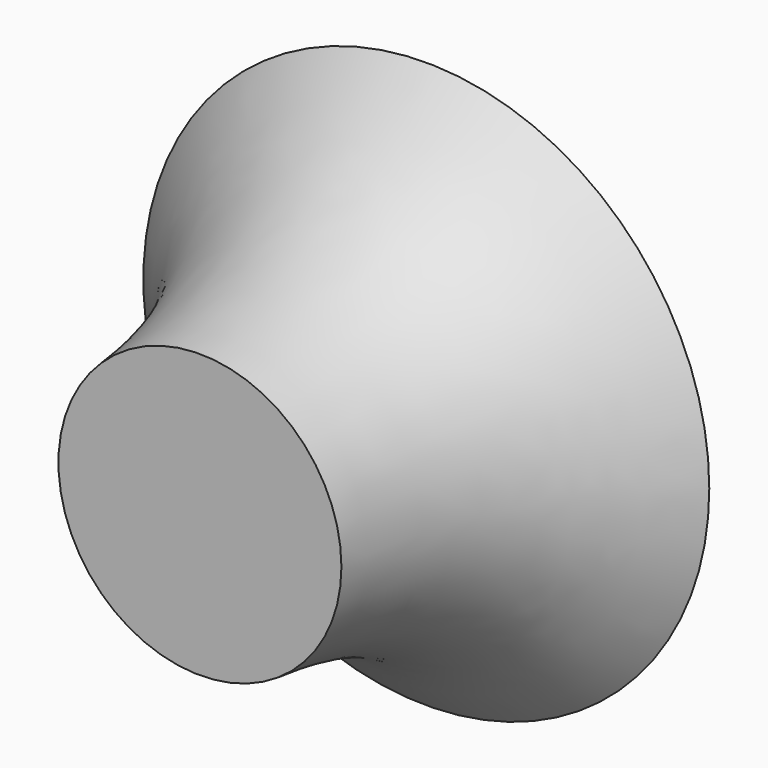
from build123d import *


with BuildPart() as f2:
    # F1 (on Top) → F2 (revolve)
    with BuildSketch(Plane.XY):
        with BuildLine():
            Line((12.7, 0), (0, 0))
            Line((0, 0), (0, -12.7))
            Line((0, -12.7), (6.35, -12.7))
            add(Edge.make_bspline(
                [(12.7, 0), (10.3880902752, -2.3415754549), (7.0632006973, -4.7863475047), (6.35, -12.7)],
                knots=[0, 0, 0, 0, 14.1990316571, 14.1990316571, 14.1990316571, 14.1990316571], degree=3))
        make_face()
    revolve(axis=Axis((0, 0, 0), (0, -1, 0)))


solid = f2.part
